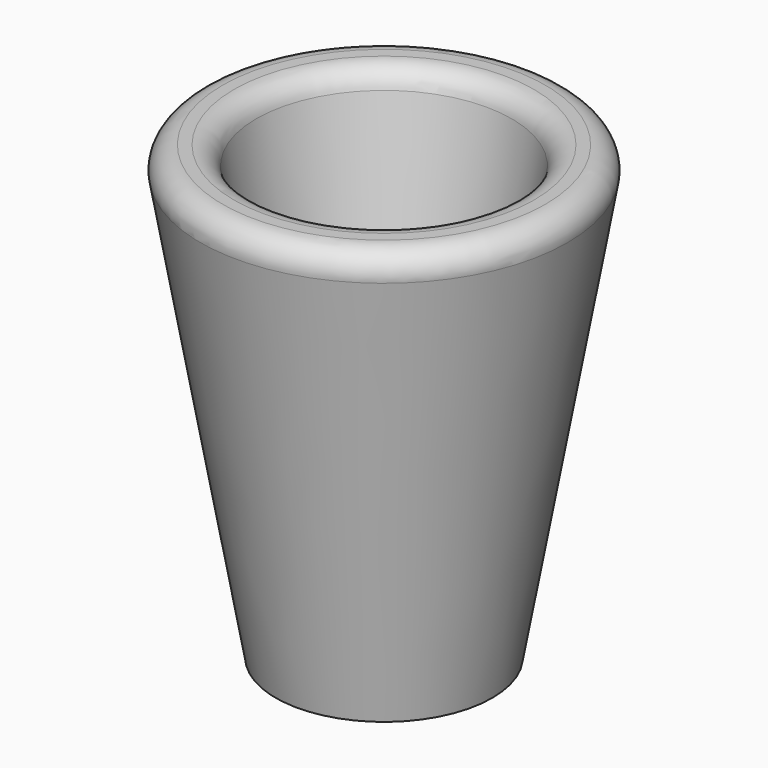
from build123d import *

# Parameters (mm, degrees)
F0_T = -12.7
F1_R = 5.08


with BuildPart() as f3:
    # F2 (on Front) → F3 (revolve)
    with BuildSketch(Plane.XZ):
        Polygon((42.4395352602, 50.6010726094), (0, 50.6010726094), (0, -51.2385219336), (24.419054389, -51.2385219336), align=None)
    revolve(axis=Axis((0, 0, -0.3187246621), (0, 0, 1)))

    # F0
    f0_openings = [f3.faces().sort_by_distance(p)[0] for p in [
        (0, 0, 50.601073),
    ]]
    offset(amount=F0_T, openings=f0_openings)

    # F1
    f1_edges = [f3.edges().sort_by_distance(p)[0] for p in [
        (-42.439535, 0, 50.601073),
        (-29.542242, 0, 50.601073),
    ]]
    fillet(f1_edges, radius=F1_R)


solid = f3.part
